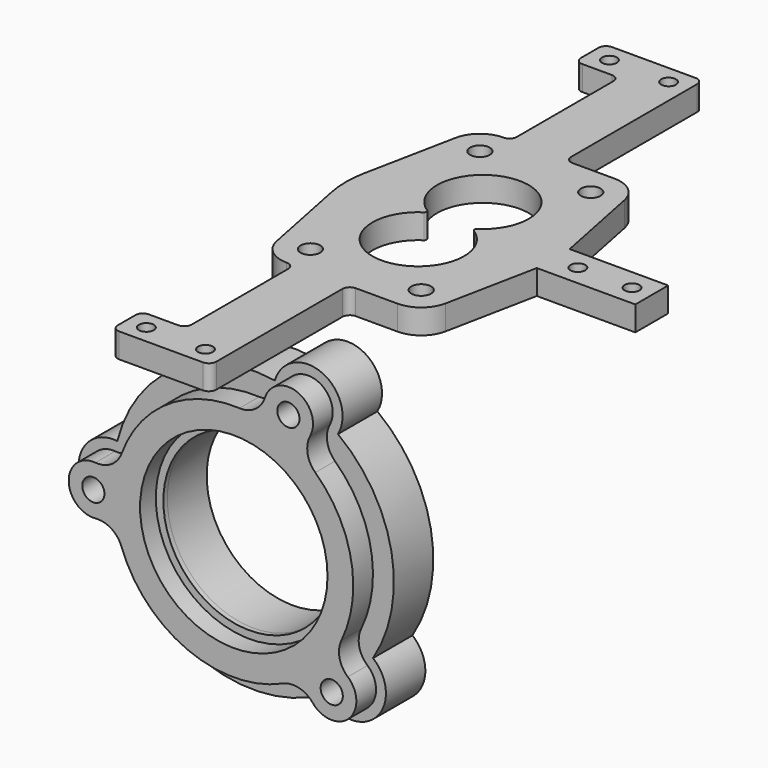
from build123d import *

# Parameters (mm, degrees)
F6_R      = 40
F6_R_2    = 35
F7_DEPTH  = 2
F0_R      = 5
F0_R_2    = 35
F8_DEPTH  = 20
F2_R      = 3
F2_R_2    = 4
F9_DEPTH  = 10
F10_R     = 4.5
F10_R_2   = 38.05
F11_DEPTH = 10
F12_R     = 1


with BuildPart() as f7:
    # F6 (on face) → F7 (new body)
    with BuildSketch(Plane.XZ):
        Circle(F6_R)
        Circle(F6_R_2, mode=Mode.SUBTRACT)
    extrude(amount=F7_DEPTH)

    # F0 (on Front) → F8 (join)
    with BuildSketch(Plane.XZ):
        with BuildLine():
            ThreePointArc((48.5158272572, -29.9201354535), (56.0141075704, 10.5555555556), (34.2984055824, 45.526029637))
            ThreePointArc((34.2984055824, 45.526029637), (27.6111111111, 65.4112111431), (8.6976957822, 56.3324958446))
            ThreePointArc((8.6976957822, 56.3324958446), (-31.5079355084, 47.5), (-55.2807017544, 13.8940279812))
            ThreePointArc((-55.2807017544, 13.8940279812), (-71, 0), (-55.2807017544, -13.8940279812))
            ThreePointArc((-55.2807017544, -13.8940279812), (-22.1666666667, -52.5132258473), (28.6041640792, -49.3031621433))
            ThreePointArc((28.6041640792, -49.3031621433), (49.524691358, -50.8753864446), (48.5158272572, -29.9201354535))
        make_face()
        with Locations((-57, 0)):
            Circle(F0_R, mode=Mode.SUBTRACT)
        with Locations((39.7592592593, -40.8436201035)):
            Circle(F0_R, mode=Mode.SUBTRACT)
        Circle(F0_R_2, mode=Mode.SUBTRACT)
        with Locations((22.1666666667, 52.5132258473)):
            Circle(F0_R, mode=Mode.SUBTRACT)
    extrude(amount=-F8_DEPTH)


with BuildPart() as f9:
    # F2 (on offset) → F9 (new body)
    with BuildSketch(Plane.XY.offset(60)):
        with BuildLine():
            Line((-34.266722362, 145.3546220199), (-41.6738083653, 108.3392863205))
            ThreePointArc((-41.6738083653, 108.3392863205), (-42.5, 100), (-41.6738083653, 91.6607136795))
            Line((-41.6738083653, 91.6607136795), (-34.266722362, 54.6453779801))
            ThreePointArc((-34.266722362, 54.6453779801), (-30.1073824592, 47.7194972055), (-22.5, 45))
            ThreePointArc((-22.5, 45), (-20.3786796564, 44.1213203436), (-19.5, 42))
            Line((-19.5, 42), (-19.5, -7))
            ThreePointArc((-19.5, -7), (-20.3786796564, -9.1213203436), (-22.5, -10))
            Line((-22.5, -10), (-34.5, -10))
            ThreePointArc((-34.5, -10), (-36.6213203436, -10.8786796564), (-37.5, -13))
            Line((-37.5, -13), (-37.5, -22))
            ThreePointArc((-37.5, -22), (-36.6213203436, -24.1213203436), (-34.5, -25))
            Line((-34.5, -25), (-0.5, -25))
            ThreePointArc((-0.5, -25), (1.6213203436, -24.1213203436), (2.5, -22))
            Line((2.5, -22), (2.5, 42))
            ThreePointArc((2.5, 42), (3.3786796564, 44.1213203436), (5.5, 45))
            Line((5.5, 45), (22.5, 45))
            ThreePointArc((22.5, 45), (30.1073824592, 47.7194972055), (34.266722362, 54.6453779801))
            Line((34.266722362, 54.6453779801), (41.6738083653, 91.6607136795))
            Line((41.6738083653, 91.6607136795), (81.6738083653, 91.6607136795))
            Line((81.6738083653, 91.6607136795), (81.6738083653, 108.3392863205))
            Line((81.6738083653, 108.3392863205), (41.6738083653, 108.3392863205))
            Line((41.6738083653, 108.3392863205), (34.266722362, 145.3546220199))
            ThreePointArc((34.266722362, 145.3546220199), (30.1073824592, 152.2805027945), (22.5, 155))
            Line((22.5, 155), (5.5, 155))
            ThreePointArc((5.5, 155), (3.3786796564, 155.8786796564), (2.5, 158))
            Line((2.5, 158), (2.5, 222))
            ThreePointArc((2.5, 222), (1.6213203436, 224.1213203436), (-0.5, 225))
            Line((-0.5, 225), (-34.5, 225))
            ThreePointArc((-34.5, 225), (-36.6213203436, 224.1213203436), (-37.5, 222))
            Line((-37.5, 222), (-37.5, 213))
            ThreePointArc((-37.5, 213), (-36.6213203436, 210.8786796564), (-34.5, 210))
            Line((-34.5, 210), (-22.5, 210))
            ThreePointArc((-22.5, 210), (-20.3786796564, 209.1213203436), (-19.5, 207))
            Line((-19.5, 207), (-19.5, 158))
            ThreePointArc((-19.5, 158), (-20.3786796564, 155.8786796564), (-22.5, 155))
            ThreePointArc((-22.5, 155), (-30.1073824592, 152.2805027945), (-34.266722362, 145.3546220199))
        make_face()
        with Locations((-29.5, -17.5)):
            Circle(F2_R, mode=Mode.SUBTRACT)
        with BuildLine():
            ThreePointArc((-2.5, -17.5), (-5.5, -20.5), (-8.5, -17.5))
            ThreePointArc((-8.5, -17.5), (-5.5, -14.5), (-2.5, -17.5))
        make_face(mode=Mode.SUBTRACT)
        with Locations((-22.5, 57)):
            Circle(F2_R_2, mode=Mode.SUBTRACT)
        with BuildLine():
            ThreePointArc((8.7749643874, 100), (0, 65), (-8.7749643874, 100))
            ThreePointArc((-8.7749643874, 100), (0, 135), (8.7749643874, 100))
        make_face(mode=Mode.SUBTRACT)
        with Locations((22.5, 57)):
            Circle(F2_R_2, mode=Mode.SUBTRACT)
        with Locations((-22.5, 143)):
            Circle(F2_R_2, mode=Mode.SUBTRACT)
        with Locations((-29.5, 217.5)):
            Circle(F2_R, mode=Mode.SUBTRACT)
        with Locations((-5.5, 217.5)):
            Circle(F2_R, mode=Mode.SUBTRACT)
        with Locations((22.5, 143)):
            Circle(F2_R_2, mode=Mode.SUBTRACT)
        with Locations((51.6738083653, 100)):
            Circle(F2_R, mode=Mode.SUBTRACT)
        with Locations((73.6738083653, 100)):
            Circle(F2_R, mode=Mode.SUBTRACT)
    extrude(amount=F9_DEPTH)

    # F12
    f12_edges = [f9.edges().sort_by_distance(p)[0] for p in [
        (8.774964, 100, 65),
        (-8.774964, 100, 65),
    ]]
    fillet(f12_edges, radius=F12_R)


with BuildPart() as f11:
    # F10 (on face) → F11 (new body)
    with BuildSketch(Plane.XZ):
        with BuildLine():
            ThreePointArc((46.2853159493, -33.2666428645), (42.9225860331, -27.5655058407), (43.7203539958, -20.9947766475))
            ThreePointArc((43.7203539958, -20.9947766475), (47.661126617, 8.9814814815), (33.0803520266, 35.4674542334))
            ThreePointArc((33.0803520266, 35.4674542334), (29.9457897312, 41.2971570619), (31.0028693227, 47.8311832779))
            ThreePointArc((31.0028693227, 47.8311832779), (26.0555555556, 61.7260724872), (12.6482028021, 55.5789795325))
            ThreePointArc((12.6482028021, 55.5789795325), (8.7035609955, 50.263839189), (2.3398058619, 48.4435270034))
            ThreePointArc((2.3398058619, 48.4435270034), (-26.809383722, 40.4166666667), (-45.5402029996, 16.6835221329))
            ThreePointArc((-45.5402029996, 16.6835221329), (-49.6920223629, 11.5285913063), (-56.1228070175, 9.9614523274))
            ThreePointArc((-56.1228070175, 9.9614523274), (-67, 0), (-56.1228070175, -9.9614523274))
            ThreePointArc((-56.1228070175, -9.9614523274), (-49.6920223629, -11.5285913063), (-45.5402029996, -16.6835221329))
            ThreePointArc((-45.5402029996, -16.6835221329), (-18.8611111111, -44.6823062034), (19.8110403122, -44.26931987))
            ThreePointArc((19.8110403122, -44.26931987), (26.400852572, -43.6486023545), (32.009464211, -47.1634837658))
            ThreePointArc((32.009464211, -47.1634837658), (46.7345679012, -48.00916749), (46.2853159493, -33.2666428645))
        make_face()
        with Locations((-57, 0)):
            Circle(F10_R, mode=Mode.SUBTRACT)
        with Locations((39.7592592593, -40.8436201035)):
            Circle(F10_R, mode=Mode.SUBTRACT)
        Circle(F10_R_2, mode=Mode.SUBTRACT)
        with Locations((22.1666666667, 52.5132258473)):
            Circle(F10_R, mode=Mode.SUBTRACT)
    extrude(amount=F11_DEPTH)


solid = Compound([f7.part, f9.part, f11.part])
